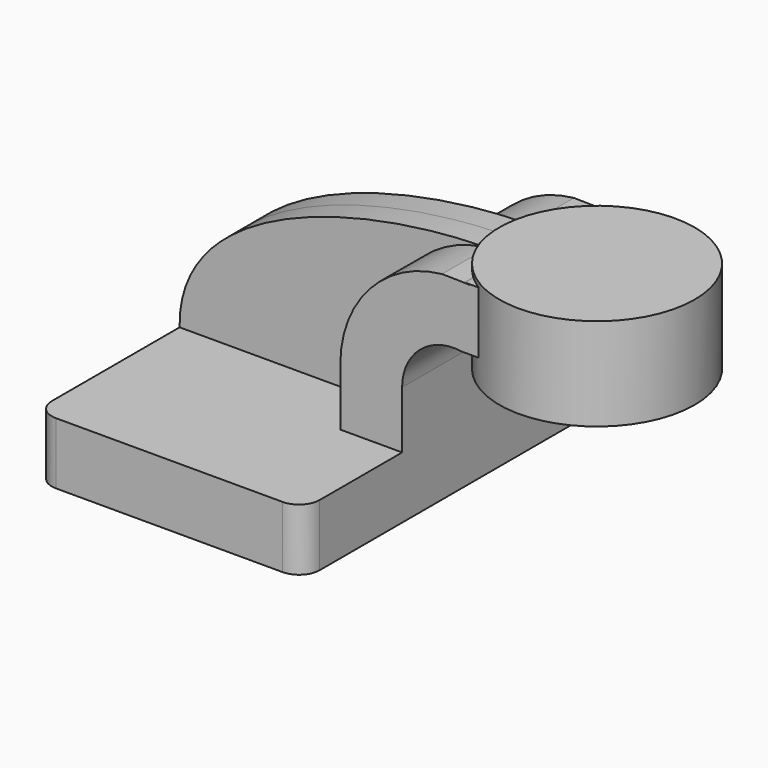
from build123d import *

# Parameters (mm, degrees)
F1_DEPTH = 63.5
F2_DEPTH = 25.4
F3_DEPTH = 7.9375
F5_R     = 6.35


with BuildPart() as f1:
    # F0 (on Front) → F1 (new body, symmetric)
    with BuildSketch(Plane.XZ):
        Polygon((22.2249999642, 9.525), (-41.275, 9.525), (-41.275, -9.525), (41.275, -9.525), (41.275, 9.525), align=None)
    extrude(amount=F1_DEPTH, both=True)

    # F0 (on Front) → F2 (join, symmetric)
    with BuildSketch(Plane.XZ):
        with BuildLine():
            Line((22.2249999642, 27.1821387616), (22.2249999642, 9.525))
            Line((22.2249999642, 9.525), (41.275, 9.525))
            Line((41.275, 9.525), (41.275, 27.1821387616))
            ThreePointArc((41.275, 27.1821387616), (46.8066352935, 39.2249968754), (59.5465504312, 42.8752))
            Line((59.5465504312, 42.8752), (60.325, 42.8752))
            Line((60.325, 42.8752), (60.325, 61.8121879463))
            add(Edge.make_bspline(
                [(53.5827816682, 61.924484406), (55.9043140785, 61.9405018001), (58.157358995, 61.9025346921), (60.325, 61.8121879463)],
                knots=[107.4684002997, 107.4684002997, 107.4684002997, 107.4684002997, 113.9637235604, 113.9637235604, 113.9637235604, 113.9637235604], degree=3))
            ThreePointArc((53.5827816682, 61.924484406), (31.2237514489, 50.5826785752), (22.2249999642, 27.1821387616))
        make_face()
        with BuildLine():
            add(Edge.make_bspline(
                [(60.325, 61.8121879463), (61.0334566794, 61.7826596455), (61.7327905274, 61.7475361607), (62.422410954, 61.7068735214)],
                knots=[113.9637235604, 113.9637235604, 113.9637235604, 113.9637235604, 116.0866097479, 116.0866097479, 116.0866097479, 116.0866097479], degree=3))
            Line((60.325, 61.8121879463), (60.325, 42.8752))
            Line((60.325, 42.8752), (81.01685845, 42.8752))
            Line((81.01685845, 42.8752), (81.01685845, 61.9251988828))
            Line((81.01685845, 61.9251988828), (60.7102529284, 61.9251988828))
            ThreePointArc((60.7102529284, 61.9251988828), (61.5676808741, 61.8266148465), (62.422410954, 61.7068735214))
        make_face()
    extrude(amount=F2_DEPTH, both=True)

    # F0 (on Front) → F3 (join, symmetric)
    with BuildSketch(Plane.XZ):
        with BuildLine():
            add(Edge.make_bspline(
                [(-41.275, 9.525), (-41.9877743947, 46.6159944116), (15.1718567055, 61.659468539), (53.5827816682, 61.924484406)],
                knots=[0, 0, 0, 0, 107.4684002997, 107.4684002997, 107.4684002997, 107.4684002997], degree=3))
            Line((-41.275, 9.525), (22.2249999642, 9.525))
            Line((22.2249999642, 9.525), (22.2249999642, 27.1821387616))
            ThreePointArc((22.2249999642, 27.1821387616), (31.2237514489, 50.5826785752), (53.5827816682, 61.924484406))
        make_face()
    extrude(amount=F3_DEPTH, both=True)

    # F0 (on Front) → F4 (revolve)
    with BuildSketch(Plane.XZ):
        Polygon((111.125, 63.3849346732), (81.01685845, 63.3849346732), (81.01685845, 61.9251988828), (81.01685845, 42.8752), (81.01685845, 34.8099346732), (111.125, 34.8099346732), align=None)
    revolve(axis=Axis((81.01685845, 0, 49.0974346732), (0, 0, 1)))

    # F5
    f5_edges = [f1.edges().sort_by_distance(p)[0] for p in [
        (-41.275, -63.5, 0),
        (41.275, -63.5, 0),
        (41.275, 63.5, 0),
        (-41.275, 63.5, 0),
    ]]
    fillet(f5_edges, radius=F5_R)


solid = f1.part
